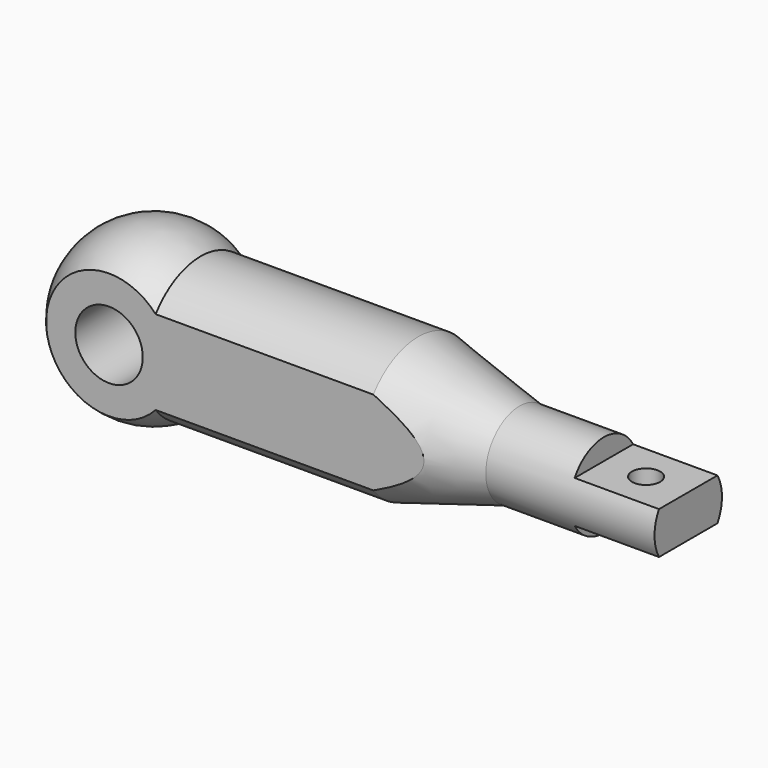
from build123d import *

# Parameters (mm, degrees)
F0_W          = 15
F0_H          = 3.75
F3_DEPTH      = 15.001
F3_DEPTH_BACK = 15.001
F4_DEPTH      = 10.5
F4_DEPTH_BACK = 13.7487271849
F5_DEPTH      = 47.501
F5_DEPTH_BACK = 62.501
F6_R          = 2.5
F7_DEPTH      = 18.751


with BuildPart() as f2:
    # F0 (on Front) → F2 (revolve)
    with BuildSketch(Plane.XZ):
        with BuildLine():
            Line((32.5, 3.75), (32.5, 7.5))
            Line((32.5, 7.5), (17.5, 7.5))
            Line((17.5, 7.5), (-0.5, 12.5))
            Line((-0.5, 12.5), (-39.2084380241, 12.5))
            ThreePointArc((-39.2084380241, 12.5), (-54.5931858273, 13.2169101843), (-62.5, 0))
            Line((-62.5, 0), (-53.5, 0))
            ThreePointArc((-53.5, 0), (-47.5, 6), (-41.5, 0))
            Line((-41.5, 0), (32.5, 0))
            Line((32.5, 0), (32.5, 3.75))
        make_face()
        with Locations((40, 5.625)):
            Rectangle(F0_W, F0_H)
        with Locations((40, 1.875)):
            Rectangle(F0_W, F0_H)
    revolve(axis=Axis((-7.5, 0, 0), (1, 0, 0)))

    # F0 (on Front) → F3 (cut, two sides)
    with BuildSketch(Plane.XZ) as f3_sk:
        with BuildLine():
            ThreePointArc((-53.5, 0), (-47.5, -6), (-41.5, 0))
            Line((-41.5, 0), (-53.5, 0))
        make_face()
        with BuildLine():
            Line((-53.5, 0), (-41.5, 0))
            ThreePointArc((-41.5, 0), (-47.5, 6), (-53.5, 0))
        make_face()
    extrude(amount=-F3_DEPTH, mode=Mode.SUBTRACT)
    extrude(f3_sk.sketch, amount=F3_DEPTH_BACK, mode=Mode.SUBTRACT)

    # F0 (on Front) → F4 (cut, two sides)
    with BuildSketch(Plane.XZ) as f4_sk:
        with Locations((40, 5.625)):
            Rectangle(F0_W, F0_H)
        with Locations((40, -5.625)):
            Rectangle(F0_W, F0_H)
    extrude(amount=F4_DEPTH, mode=Mode.SUBTRACT)
    extrude(f4_sk.sketch, amount=-F4_DEPTH_BACK, mode=Mode.SUBTRACT)

    # F1 (on Right) → F5 (cut, two sides)
    with BuildSketch(Plane.YZ) as f5_sk:
        Polygon((10, 20), (10, 0), (10, -20), (60, -20), (60, 20), align=None)
        Polygon((-10, -20), (-10, 0), (-10, 20), (-60, 20), (-60, -20), align=None)
    extrude(amount=F5_DEPTH, mode=Mode.SUBTRACT)
    extrude(f5_sk.sketch, amount=-F5_DEPTH_BACK, mode=Mode.SUBTRACT)

    # F6 (on face) → F7 (cut, through all)
    with BuildSketch(Plane.XY.offset(3.75)):
        with Locations((40, 0)):
            Circle(F6_R)
    extrude(amount=-F7_DEPTH, mode=Mode.SUBTRACT)


solid = f2.part
